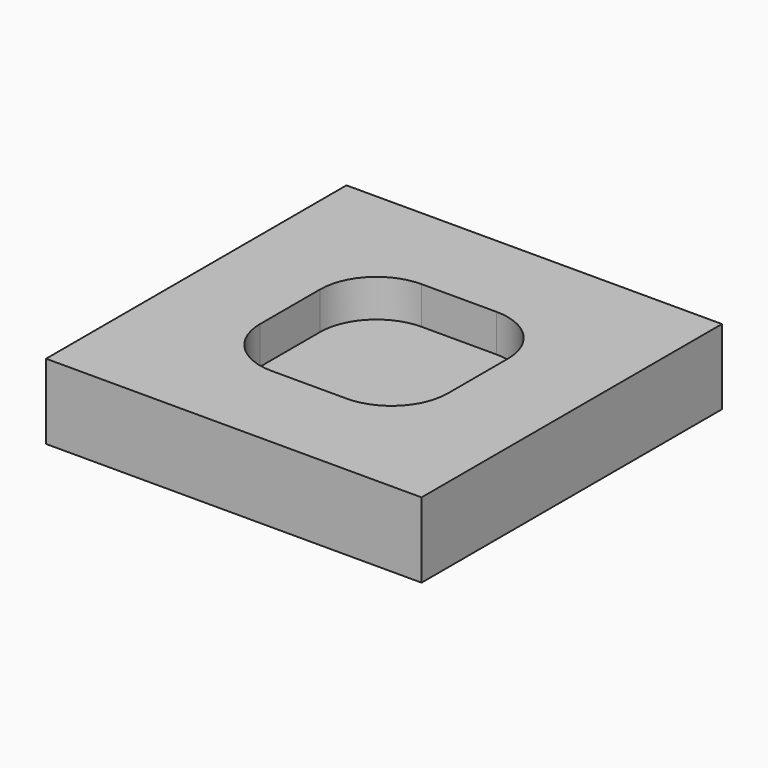
from build123d import *

# Parameters (mm, degrees)
F0_W     = 20
F0_H     = 20
F1_DEPTH = 4
F2_DEPTH = 2


with BuildPart() as f1:
    # F0 (on Top) → F1 (new body)
    with BuildSketch(Plane.XY):
        Rectangle(F0_W, F0_H)
        with BuildLine():
            ThreePointArc((-5, 2), (-4.12132, 4.12132), (-2, 5))
            Line((-2, 5), (2, 5))
            ThreePointArc((2, 5), (4.12132, 4.12132), (5, 2))
            Line((5, 2), (5, -2))
            ThreePointArc((5, -2), (4.12132, -4.12132), (2, -5))
            Line((2, -5), (-2, -5))
            ThreePointArc((-2, -5), (-4.12132, -4.12132), (-5, -2))
            Line((-5, -2), (-5, 2))
        make_face(mode=Mode.SUBTRACT)
        with BuildLine():
            Line((2, 5), (-2, 5))
            ThreePointArc((-2, 5), (-4.12132, 4.12132), (-5, 2))
            Line((-5, 2), (-5, -2))
            ThreePointArc((-5, -2), (-4.12132, -4.12132), (-2, -5))
            Line((-2, -5), (2, -5))
            ThreePointArc((2, -5), (4.12132, -4.12132), (5, -2))
            Line((5, -2), (5, 2))
            ThreePointArc((5, 2), (4.12132, 4.12132), (2, 5))
        make_face()
    extrude(amount=-F1_DEPTH)

    # F0 (on Top) → F2 (cut)
    with BuildSketch(Plane.XY):
        with BuildLine():
            Line((2, 5), (-2, 5))
            ThreePointArc((-2, 5), (-4.12132, 4.12132), (-5, 2))
            Line((-5, 2), (-5, -2))
            ThreePointArc((-5, -2), (-4.12132, -4.12132), (-2, -5))
            Line((-2, -5), (2, -5))
            ThreePointArc((2, -5), (4.12132, -4.12132), (5, -2))
            Line((5, -2), (5, 2))
            ThreePointArc((5, 2), (4.12132, 4.12132), (2, 5))
        make_face()
    extrude(amount=-F2_DEPTH, mode=Mode.SUBTRACT)


solid = f1.part
